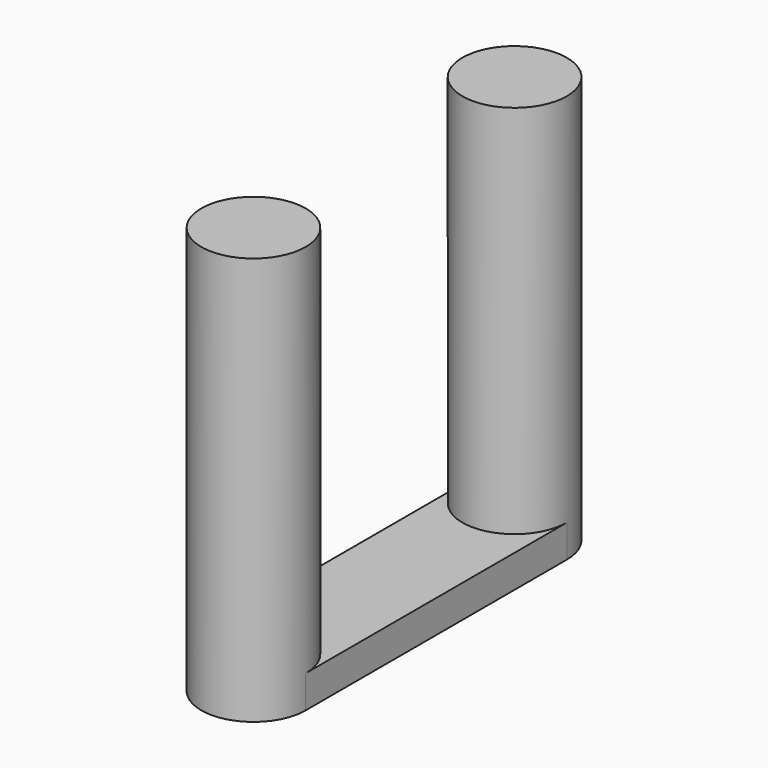
from build123d import *

# Parameters (mm, degrees)
F1_DEPTH = 25
F2_DEPTH = 2


with BuildPart() as f1:
    # F0 (on Top) → F1 (new body)
    with BuildSketch(Plane.XY):
        with BuildLine():
            ThreePointArc((-3.2, -20), (0, -23.2), (3.2, -20))
            ThreePointArc((3.2, -20), (0, -16.8), (-3.2, -20))
        make_face()
        with BuildLine():
            ThreePointArc((-3.2, 0), (0, -3.2), (3.2, 0))
            ThreePointArc((3.2, 0), (0, 3.2), (-3.2, 0))
        make_face()
    extrude(amount=F1_DEPTH)

    # F0 (on Top) → F2 (join)
    with BuildSketch(Plane.XY):
        with BuildLine():
            Line((3.2, -20), (3.2, 0))
            ThreePointArc((3.2, 0), (0, -3.2), (-3.2, 0))
            Line((-3.2, 0), (-3.2, -20))
            ThreePointArc((-3.2, -20), (0, -16.8), (3.2, -20))
        make_face()
    extrude(amount=F2_DEPTH)


solid = f1.part
